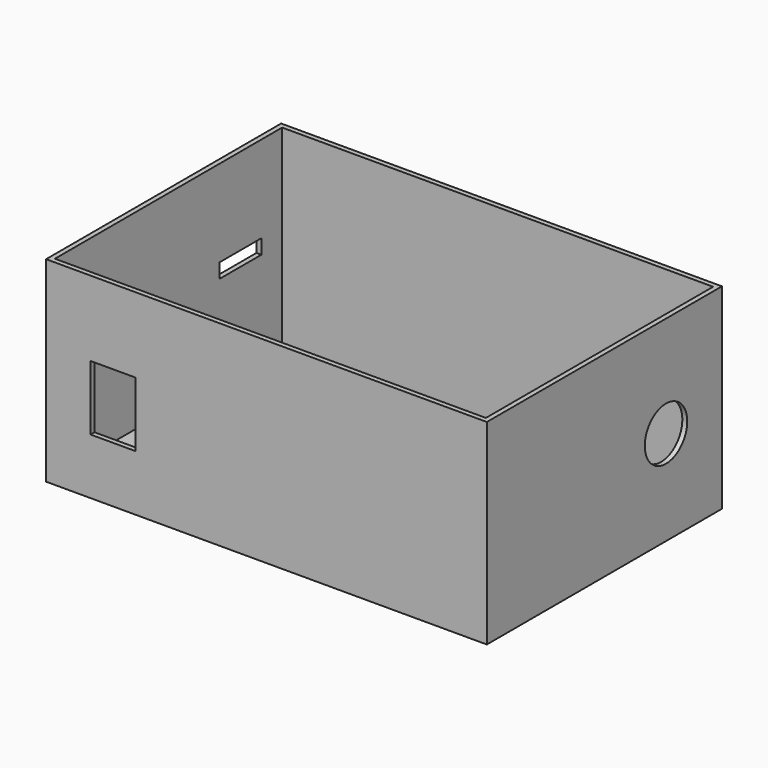
from build123d import *

# Parameters (mm, degrees)
F0_W      = 90
F0_H      = 60
F0_R      = 2.6
F0_R_2    = 1.6
F1_DEPTH  = 40
F2_W      = 88
F2_H      = 58
F3_DEPTH  = 39
F4_DEPTH  = 10
F5_W      = 9.1457683593
F5_H      = 13.2199376822
F6_DEPTH  = 2
F7_W      = 10.7257449999
F7_H      = 2.9699578881
F8_DEPTH  = 2
F9_R      = 5.4148812487
F10_DEPTH = 2


with BuildPart() as f1:
    # F0 (on Top) → F1 (new body)
    with BuildSketch(Plane.XY):
        with Locations((7.6679475605, -1.568697635)):
            Rectangle(F0_W, F0_H)
        with Locations((-14.3958524395, -21.942097635)):
            Circle(F0_R, mode=Mode.SUBTRACT)
        with Locations((33.6609475605, -28.647697635)):
            Circle(F0_R, mode=Mode.SUBTRACT)
        with Locations((-17.7740524395, 1.273502365)):
            Circle(F0_R, mode=Mode.SUBTRACT)
        with Locations((36.3279475605, 12.881302365)):
            Circle(F0_R, mode=Mode.SUBTRACT)
        with Locations((-17.7740524395, 1.273502365)):
            Circle(F0_R)
        with Locations((-17.7740524395, 1.273502365)):
            Circle(F0_R_2, mode=Mode.SUBTRACT)
        with Locations((-14.3958524395, -21.942097635)):
            Circle(F0_R)
        with Locations((-14.3958524395, -21.942097635)):
            Circle(F0_R_2, mode=Mode.SUBTRACT)
        with Locations((33.6609475605, -28.647697635)):
            Circle(F0_R)
        with Locations((33.6609475605, -28.647697635)):
            Circle(F0_R_2, mode=Mode.SUBTRACT)
        with Locations((36.3279475605, 12.881302365)):
            Circle(F0_R)
        with Locations((36.3279475605, 12.881302365)):
            Circle(F0_R_2, mode=Mode.SUBTRACT)
        with Locations((-17.7740524395, 1.273502365)):
            Circle(F0_R_2)
        with Locations((-14.3958524395, -21.942097635)):
            Circle(F0_R_2)
        with Locations((33.6609475605, -28.647697635)):
            Circle(F0_R_2)
        with Locations((36.3279475605, 12.881302365)):
            Circle(F0_R_2)
    extrude(amount=F1_DEPTH)

    # F2 (on face) → F3 (cut)
    with BuildSketch(Plane.XY.offset(40)):
        with Locations((7.6679475605, -1.568697635)):
            Rectangle(F2_W, F2_H)
    extrude(amount=-F3_DEPTH, mode=Mode.SUBTRACT)

    # F0 (on Top) → F4 (join)
    with BuildSketch(Plane.XY):
        with Locations((-14.3958524395, -21.942097635)):
            Circle(F0_R)
        with Locations((-14.3958524395, -21.942097635)):
            Circle(F0_R_2, mode=Mode.SUBTRACT)
        with Locations((-17.7740524395, 1.273502365)):
            Circle(F0_R)
        with Locations((-17.7740524395, 1.273502365)):
            Circle(F0_R_2, mode=Mode.SUBTRACT)
        with Locations((33.6609475605, -28.647697635)):
            Circle(F0_R)
        with Locations((33.6609475605, -28.647697635)):
            Circle(F0_R_2, mode=Mode.SUBTRACT)
        with Locations((36.3279475605, 12.881302365)):
            Circle(F0_R)
        with Locations((36.3279475605, 12.881302365)):
            Circle(F0_R_2, mode=Mode.SUBTRACT)
    extrude(amount=F4_DEPTH)

    # F5 (on face) → F6 (cut)
    with BuildSketch(Plane.XZ.offset(31.568697635)):
        with Locations((-23.679333739, 18.0436503142)):
            Rectangle(F5_W, F5_H)
    extrude(amount=-F6_DEPTH, mode=Mode.SUBTRACT)

    # F7 (on face) → F8 (cut)
    with BuildSketch(Plane(origin=(-37.3320524395, 0, 0), x_dir=(0, -1, 0), z_dir=(-1, 0, 0))):
        with Locations((-16.7629956268, 20.779600367)):
            Rectangle(F7_W, F7_H)
    extrude(amount=-F8_DEPTH, mode=Mode.SUBTRACT)

    # F9 (on face) → F10 (cut)
    with BuildSketch(Plane.YZ.offset(52.6679475605)):
        with Locations((14.1623625532, 19.3200558424)):
            Circle(F9_R)
    extrude(amount=-F10_DEPTH, mode=Mode.SUBTRACT)


solid = f1.part
